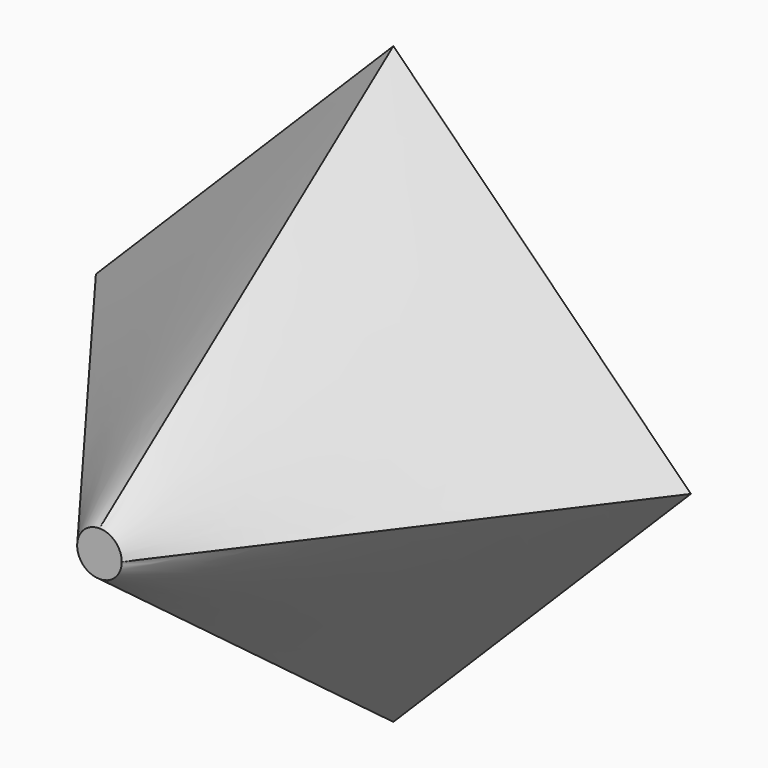
from build123d import *

# Parameters (mm, degrees)
F2_R = 4.613488


with BuildPart() as f3:
    # F2 (on offset) → F3 section 0
    with BuildSketch(Plane.XZ.offset(76)):
        Circle(F2_R)
    # F0 (on Front) → F3 section 1
    with BuildSketch(Plane.XZ):
        Polygon((61.53689, 0), (0, 61.53689), (-61.53689, 0), (0, -61.53689), align=None)
    loft()


solid = f3.part
